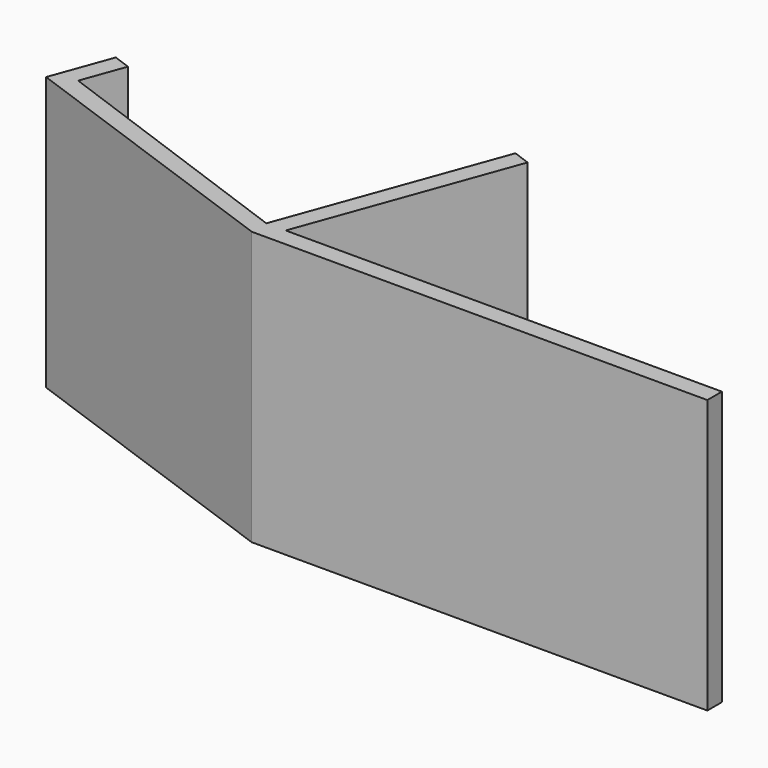
from build123d import *

# Parameters (mm, degrees)
PAD_DEPTH = 30


with BuildPart() as part:
    # Sketch → Pad (new body)
    with BuildSketch(Plane.XY):
        Polygon((0, 0), (50, 0), (50, 2), (2.12837, 2), (10.429903, 24.808275), (8.550518, 25.492316), (1.4e-05, 2), (-29.130457, 12.602624), (-27.420356, 17.301088), (-29.299742, 17.985128), (-31.693883, 11.407279), align=None)
    extrude(amount=PAD_DEPTH)


solid = part.part
